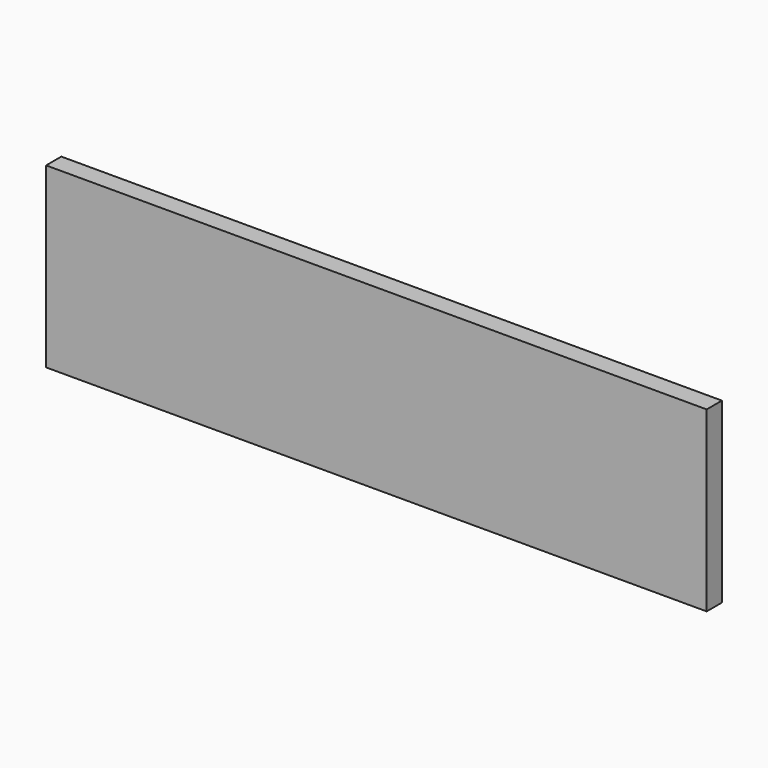
from build123d import *

# Parameters (mm, degrees)
BOX_W     = 52
BOX_H     = 1.5
BOX_DEPTH = 14


with BuildPart() as part:
    # Box → Box (new body)
    with BuildSketch(Plane.XY):
        with Locations((26, 0.75)):
            Rectangle(BOX_W, BOX_H)
    extrude(amount=BOX_DEPTH)


solid = part.part
